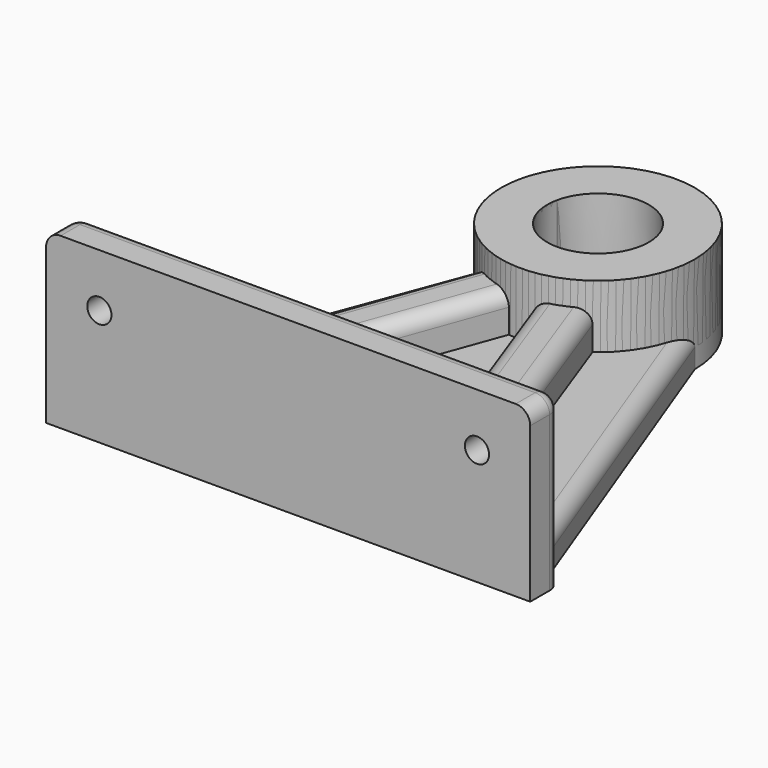
from build123d import *

# Parameters (mm, degrees)
FACE003_R              = 2.5
EXTRUDE003_DEPTH       = 10
SKETCH_R               = 20
EXTRUDE_DEPTH          = 4
CHAMFER_SIZE           = 2.5
EXTRUDE002_DEPTH       = 13
FACE001_R              = 20
FACE001_R_2            = 10.5
EXTRUDE001_DEPTH       = 16
FILLET_R               = 0.5
CYLINDER_R             = 20
CYLINDER_DEPTH         = 20
EXTRUDE004_DEPTH       = 7
FILLET001_R            = 3
BOX001_W               = 68
BOX001_H               = 10
BOX001_DEPTH           = 15
BOX001_PLACEMENT_ANGLE = 110
FILLET003_R            = 3
BOX002_W               = 68
BOX002_H               = 10
BOX002_DEPTH           = 15
BOX002_PLACEMENT_ANGLE = 70
FILLET004_R            = 3
FACE005_R              = 2.5
EXTRUDE005_DEPTH       = 10
BOX_W                  = 100
BOX_H                  = 8
BOX_DEPTH              = 35
FILLET002_R            = 3
CHAMFER001_SIZE        = 2.5


with BuildPart() as extrude003:
    # Face003 → Extrude003 (new body)
    with BuildSketch(Plane(origin=(0, 0, 4), x_dir=(0, 1, 0), z_dir=(0, 0, 1))):
        Circle(FACE003_R)
    extrude(amount=-EXTRUDE003_DEPTH)


with BuildPart() as chamfer_body:
    # Sketch → Extrude (new body)
    with BuildSketch(Plane.XY):
        Circle(SKETCH_R)
    extrude(amount=EXTRUDE_DEPTH)

    # Cut001: cut Extrude003
    add(extrude003.part, mode=Mode.SUBTRACT)

    # Chamfer
    chamfer_edges = [chamfer_body.edges().sort_by_distance(p)[0] for p in [
        (-2.5, 0, 4),
    ]]
    chamfer(chamfer_edges, length=CHAMFER_SIZE)


with BuildPart() as extrude002:
    # Sketch002 (on Face4 of Extrude001) → Extrude002 (new body)
    with BuildSketch(Plane.XY.offset(20)):
        Polygon((0, 0), (10.25, 0), (10.25, 25), (-10.25, 25), (-10.25, 0), align=None)
    extrude(amount=-EXTRUDE002_DEPTH)


with BuildPart() as fillet_body:
    # Face001 → Extrude001 (new body)
    with BuildSketch(Plane(origin=(0, 0, 4), x_dir=(0, 1, 0), z_dir=(0, 0, 1))):
        Circle(FACE001_R)
        Circle(FACE001_R_2, mode=Mode.SUBTRACT)
    extrude(amount=EXTRUDE001_DEPTH)

    # Cut: cut Extrude002
    add(extrude002.part, mode=Mode.SUBTRACT)

    # Fillet
    fillet_edges = [fillet_body.edges().sort_by_distance(p)[0] for p in [
        (-10.25, 17.173744, 13.5),
        (10.25, 17.173744, 13.5),
        (-10.25, 2.277608, 13.5),
        (10.25, 2.277608, 13.5),
    ]]
    fillet(fillet_edges, radius=FILLET_R)


with BuildPart() as cone:
    # Cone → Cone (revolve)
    with BuildSketch(Plane(origin=(0, 0, 5), x_dir=(1, 0, 0), z_dir=(0, -1, 0))):
        Polygon((0, 0), (11, 0), (10.5, 15), (0, 15), align=None)
    revolve(axis=Axis((0, 0, 5), (0, 0, 1)))


with BuildPart() as cut002:
    # Cylinder → Cylinder (new body)
    with BuildSketch(Plane.XY):
        Circle(CYLINDER_R)
    extrude(amount=CYLINDER_DEPTH)

    # Cut002: cut Cone
    add(cone.part, mode=Mode.SUBTRACT)


with BuildPart() as cone001:
    # Cone001 → Cone001 (revolve)
    with BuildSketch(Plane(origin=(0, 0, 5), x_dir=(1, 0, 0), z_dir=(0, -1, 0))):
        Polygon((0, 0), (11, 0), (10.5, 15), (0, 15), align=None)
    revolve(axis=Axis((0, 0, 5), (0, 0, 1)))


with BuildPart() as fillet001:
    # Sketch005 → Extrude004 (new body)
    with BuildSketch(Plane.XY):
        Polygon((-20, 0), (-10.5, 0), (-10.5, -10.5), (10.5, -10.5), (10.5, 0), (20, 0), (50, -80), (0, -80), (-50, -80), align=None)
    extrude(amount=EXTRUDE004_DEPTH)

    # Cut003: cut Cone001
    add(cone001.part, mode=Mode.SUBTRACT)

    # Fillet001
    fillet001_edges = [fillet001.edges().sort_by_distance(p)[0] for p in [
        (35, -40, 7),
        (-35, -40, 7),
    ]]
    fillet(fillet001_edges, radius=FILLET001_R)


with BuildPart() as fillet003:
    # Box001 → Box001 (new body)
    with BuildSketch(Plane.XY):
        with Locations((34, 5)):
            Rectangle(BOX001_W, BOX001_H)
    extrude(amount=BOX001_DEPTH)


with BuildPart() as fillet003_1:
    # Box001 placement: moved
    add(fillet003.part.moved(Location((-10, -11, 0))).rotate(Axis((-10, -11, 0), (0, 0, -1)), BOX001_PLACEMENT_ANGLE))

    # Fillet003
    fillet003_edges = [fillet003_1.edges().sort_by_distance(p)[0] for p in [
        (-21.628685, -42.949549, 15),
        (-12.231759, -46.369751, 15),
    ]]
    fillet(fillet003_edges, radius=FILLET003_R)


with BuildPart() as fillet004:
    # Box002 → Box002 (new body)
    with BuildSketch(Plane.XY):
        with Locations((34, 5)):
            Rectangle(BOX002_W, BOX002_H)
    extrude(amount=BOX002_DEPTH)


with BuildPart() as fillet004_1:
    # Box002 placement: moved
    add(fillet004.part.moved(Location((0, -13, 0))).rotate(Axis((0, -13, 0), (0, 0, -1)), BOX002_PLACEMENT_ANGLE))

    # Fillet004
    fillet004_edges = [fillet004_1.edges().sort_by_distance(p)[0] for p in [
        (11.628685, -44.949549, 15),
        (21.025611, -41.529348, 15),
    ]]
    fillet(fillet004_edges, radius=FILLET004_R)


with BuildPart() as extrude005:
    # Face005 → Extrude005 (new body)
    with BuildSketch(Plane(origin=(-39, -72, 24), x_dir=(1, 0, 0), z_dir=(0, 1, 0))):
        Circle(FACE005_R)
        with Locations((78, 0)):
            Circle(FACE005_R)
    extrude(amount=-EXTRUDE005_DEPTH)


with BuildPart() as chamfer001:
    # Box → Box (new body)
    with BuildSketch(Plane(origin=(-50, -80, 0), x_dir=(1, 0, 0), z_dir=(0, 0, 1))):
        with Locations((50, 4)):
            Rectangle(BOX_W, BOX_H)
    extrude(amount=BOX_DEPTH)

    # Fillet002
    fillet002_edges = [chamfer001.edges().sort_by_distance(p)[0] for p in [
        (-50, -76, 35),
        (-50, -72, 17.5),
        (50, -76, 35),
        (50, -72, 17.5),
        (0, -72, 35),
    ]]
    fillet(fillet002_edges, radius=FILLET002_R)

    # Cut004: cut Extrude005
    add(extrude005.part, mode=Mode.SUBTRACT)

    # Chamfer001
    chamfer001_edges = [chamfer001.edges().sort_by_distance(p)[0] for p in [
        (-36.5, -72, 24),
        (41.5, -72, 24),
    ]]
    chamfer(chamfer001_edges, length=CHAMFER001_SIZE)


solid = Compound([chamfer_body.part, fillet_body.part, cut002.part, fillet001.part, fillet003_1.part, fillet004_1.part, chamfer001.part])
